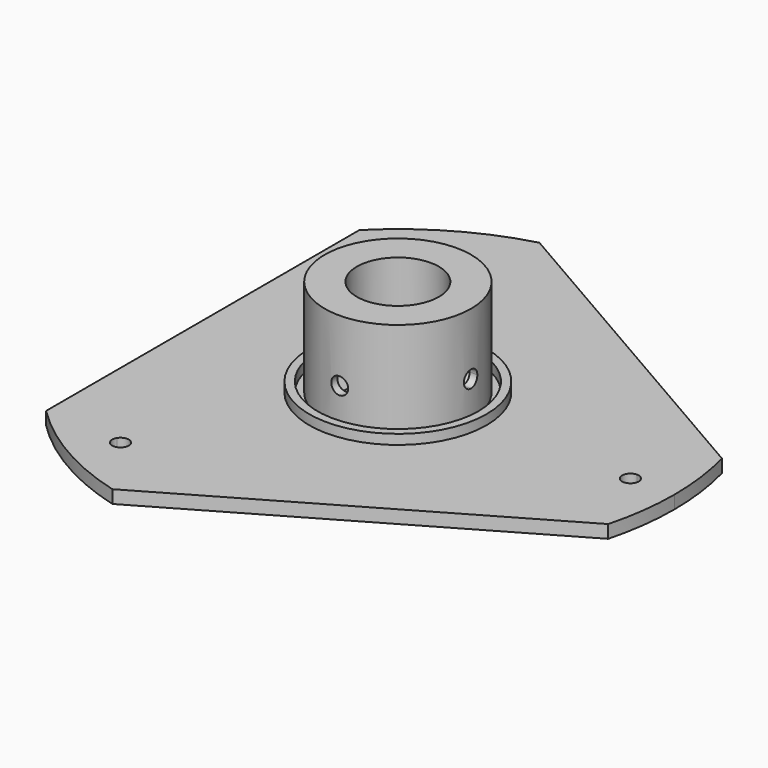
from build123d import *

# Parameters (mm, degrees)
F1_DEPTH       = 4
F3_DEPTH       = 25
F4_R           = 22.5
F4_R_2         = 12.6
F5_DEPTH       = 30
F6_R           = 12.6
F7_DEPTH       = 25
F9_DEPTH       = 20
F9_DEPTH_BACK  = 20
F11_DEPTH      = 20
F11_DEPTH_BACK = 20
F13_DEPTH      = 60.001
F13_DEPTH_BACK = 85.001
F14_R          = 2.6
F15_DEPTH      = 82.066510674
F15_DEPTH_BACK = 82.066510674
F16_R          = 27.25
F16_R_2        = 24.75
F17_DEPTH      = 3


with BuildPart() as f1:
    # F0 (on Top) → F1 (new body)
    with BuildSketch(Plane.XY):
        with BuildLine():
            ThreePointArc((82.1416340365, -21.8575377801), (84.2823792174, -11.0218216937), (85, 0))
            ThreePointArc((85, 0), (84.2823792174, 11.0218216937), (82.1416340365, 21.8575377801))
            Line((82.1416340365, 21.8575377801), (-22.1416340365, 82.065510674))
            ThreePointArc((-22.1416340365, 82.065510674), (-42.5, 73.6121593217), (-60, 60.207972894))
            Line((-60, 60.207972894), (-60, -60.207972894))
            ThreePointArc((-60, -60.207972894), (-42.5, -73.6121593217), (-22.1416340365, -82.065510674))
            Line((-22.1416340365, -82.065510674), (82.1416340365, -21.8575377801))
        make_face()
    extrude(amount=F1_DEPTH)

    # F2 (on face) → F3 (cut)
    with BuildSketch(Plane.XY.offset(4)):
        with BuildLine():
            ThreePointArc((71.454527972, -2.5495945353), (71.4886310891, -1.275), (71.5, 0))
            ThreePointArc((71.5, 0), (71.4886310891, 1.275), (71.454527972, 2.5495945353))
            ThreePointArc((71.454527972, 2.5495945353), (68.95, 0), (71.454527972, -2.5495945353))
        make_face()
        with BuildLine():
            ThreePointArc((71.454527972, 2.5495945353), (71.4886310891, 1.275), (71.5, 0))
            ThreePointArc((71.5, 0), (71.4886310891, -1.275), (71.454527972, -2.5495945353))
            ThreePointArc((71.454527972, -2.5495945353), (73.2869731851, -1.8191280427), (74.05, 0))
            ThreePointArc((74.05, 0), (73.2869731851, 1.8191280427), (71.454527972, 2.5495945353))
        make_face()
        with BuildLine():
            ThreePointArc((-37.935277623, -60.6066391715), (-37.025, -64.1291811502), (-33.5192503491, -63.1562337069))
            ThreePointArc((-33.5192503491, -63.1562337069), (-35.75, -61.9208163706), (-37.935277623, -60.6066391715))
        make_face()
        with BuildLine():
            ThreePointArc((-37.935277623, -60.6066391715), (-35.75, -61.9208163706), (-33.5192503491, -63.1562337069))
            ThreePointArc((-33.5192503491, -63.1562337069), (-33.2811023097, -62.5588165234), (-33.2, -61.9208163706))
            ThreePointArc((-33.2, -61.9208163706), (-35.0680754949, -59.4636881751), (-37.935277623, -60.6066391715))
        make_face()
        with BuildLine():
            ThreePointArc((-37.935277623, 60.6066391715), (-35.75, 61.9208163706), (-33.5192503491, 63.1562337069))
            ThreePointArc((-33.5192503491, 63.1562337069), (-37.025, 64.1291811502), (-37.935277623, 60.6066391715))
        make_face()
        with BuildLine():
            ThreePointArc((-33.2, 61.9208163706), (-33.2811023097, 62.5588165234), (-33.5192503491, 63.1562337069))
            ThreePointArc((-33.5192503491, 63.1562337069), (-35.75, 61.9208163706), (-37.935277623, 60.6066391715))
            ThreePointArc((-37.935277623, 60.6066391715), (-35.0680754949, 59.4636881751), (-33.2, 61.9208163706))
        make_face()
    extrude(amount=-F3_DEPTH, mode=Mode.SUBTRACT)

    # F4 (on face) → F5 (join)
    with BuildSketch(Plane.XY.offset(4)):
        Circle(F4_R)
        Circle(F4_R_2, mode=Mode.SUBTRACT)
        Circle(F4_R)
        Circle(F4_R_2, mode=Mode.SUBTRACT)
    extrude(amount=F5_DEPTH)

    # F6 (on face) → F7 (cut)
    with BuildSketch(Plane.XY.offset(4)):
        Circle(F6_R)
    extrude(amount=-F7_DEPTH, mode=Mode.SUBTRACT)

    # F8 (on Right) → F9 (cut, two sides)
    with BuildSketch(Plane.YZ) as f9_sk:
        Polygon((-2.3094010768, 11), (2.3094010768, 11), (4.6188021535, 15), (2.3094010768, 19), (-2.3094010768, 19), (-4.6188021535, 15), align=None)
    extrude(amount=F9_DEPTH, mode=Mode.SUBTRACT)
    extrude(f9_sk.sketch, amount=-F9_DEPTH_BACK, mode=Mode.SUBTRACT)

    # F10 (on Front) → F11 (cut, two sides)
    with BuildSketch(Plane.XZ) as f11_sk:
        Polygon((-2.3094010768, 11), (2.3094010768, 11), (4.6188021535, 15), (2.3094010768, 19), (-2.3094010768, 19), (-4.6188021535, 15), align=None)
    extrude(amount=F11_DEPTH, mode=Mode.SUBTRACT)
    extrude(f11_sk.sketch, amount=-F11_DEPTH_BACK, mode=Mode.SUBTRACT)

    # F12 (on Right) → F13 (cut, two sides)
    with BuildSketch(Plane.YZ) as f13_sk:
        with BuildLine():
            ThreePointArc((0, 17.6), (-2.6, 15), (0, 12.4))
            Line((0, 12.4), (0, 17.6))
        make_face()
        with BuildLine():
            Line((0, 17.6), (0, 12.4))
            ThreePointArc((0, 12.4), (1.8384776311, 13.1615223689), (2.6, 15))
            ThreePointArc((2.6, 15), (1.8384776311, 16.8384776311), (0, 17.6))
        make_face()
    extrude(amount=-F13_DEPTH, mode=Mode.SUBTRACT)
    extrude(f13_sk.sketch, amount=F13_DEPTH_BACK, mode=Mode.SUBTRACT)

    # F14 (on Front) → F15 (cut, two sides)
    with BuildSketch(Plane.XZ) as f15_sk:
        with Locations((0, 15)):
            Circle(F14_R)
    extrude(amount=F15_DEPTH, mode=Mode.SUBTRACT)
    extrude(f15_sk.sketch, amount=-F15_DEPTH_BACK, mode=Mode.SUBTRACT)

    # F16 (on face) → F17 (join)
    with BuildSketch(Plane.XY.offset(4)):
        Circle(F16_R)
        Circle(F16_R_2, mode=Mode.SUBTRACT)
    extrude(amount=F17_DEPTH)


solid = f1.part
